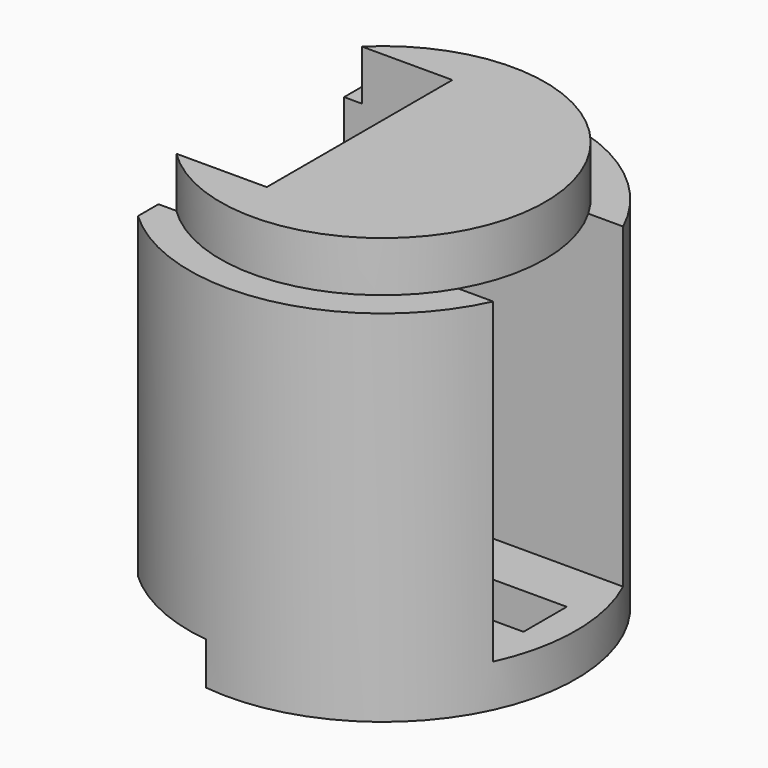
from build123d import *

# Parameters (mm, degrees)
CYLINDER091_R     = 21
CYLINDER091_DEPTH = 6.5
CYLINDER092_R     = 25
CYLINDER092_DEPTH = 6.5
BOX032_W          = 14
BOX032_H          = 50
BOX032_DEPTH      = 5.5
BOX031_W          = 14
BOX031_H          = 30
BOX031_DEPTH      = 53
BOX004_W          = 24
BOX004_H          = 7
BOX004_DEPTH      = 7
BOX003_W          = 55
BOX003_H          = 56
BOX003_DEPTH      = 71
BOX002_W          = 50
BOX002_H          = 21
BOX002_DEPTH      = 41
CYLINDER033_R     = 25
CYLINDER033_DEPTH = 53


with BuildPart() as cylinder091:
    # Cylinder091 → Cylinder091 (new body)
    with BuildSketch(Plane(origin=(6, 0, 45.5), x_dir=(1, 0, 0), z_dir=(0, 0, 1))):
        Circle(CYLINDER091_R)
    extrude(amount=CYLINDER091_DEPTH)


with BuildPart() as cut096:
    # Cylinder092 → Cylinder092 (new body)
    with BuildSketch(Plane(origin=(6, 0, 45.5), x_dir=(1, 0, 0), z_dir=(0, 0, 1))):
        Circle(CYLINDER092_R)
    extrude(amount=CYLINDER092_DEPTH)

    # Cut096: cut Cylinder091
    add(cylinder091.part, mode=Mode.SUBTRACT)


with BuildPart() as cube016:
    # Box032 → Box032 (new body)
    with BuildSketch(Plane(origin=(-11, -25, -1), x_dir=(1, 0, 0), z_dir=(0, 0, 1))):
        with Locations((7, 25)):
            Rectangle(BOX032_W, BOX032_H)
    extrude(amount=BOX032_DEPTH)


with BuildPart() as cube015:
    # Box031 → Box031 (new body)
    with BuildSketch(Plane(origin=(-11, -15, -1), x_dir=(1, 0, 0), z_dir=(0, 0, 1))):
        with Locations((7, 15)):
            Rectangle(BOX031_W, BOX031_H)
    extrude(amount=BOX031_DEPTH)


with BuildPart() as cube004:
    # Box004 → Box004 (new body)
    with BuildSketch(Plane(origin=(3, -3.5, -1), x_dir=(1, 0, 0), z_dir=(0, 0, 1))):
        with Locations((12, 3.5)):
            Rectangle(BOX004_W, BOX004_H)
    extrude(amount=BOX004_DEPTH)


with BuildPart() as cube003:
    # Box003 → Box003 (new body)
    with BuildSketch(Plane(origin=(-66, -25, -15), x_dir=(1, 0, 0), z_dir=(0, 0, 1))):
        with Locations((27.5, 28)):
            Rectangle(BOX003_W, BOX003_H)
    extrude(amount=BOX003_DEPTH)


with BuildPart() as cube002:
    # Box002 → Box002 (new body)
    with BuildSketch(Plane(origin=(-15, -10.5, 4.5), x_dir=(1, 0, 0), z_dir=(0, 0, 1))):
        with Locations((25, 10.5)):
            Rectangle(BOX002_W, BOX002_H)
    extrude(amount=BOX002_DEPTH)


with BuildPart() as cut097:
    # Cylinder033 → Cylinder033 (new body)
    with BuildSketch(Plane(origin=(6, 0, -1), x_dir=(1, 0, 0), z_dir=(0, 0, 1))):
        Circle(CYLINDER033_R)
    extrude(amount=CYLINDER033_DEPTH)

    # Cut026: cut Cube002
    add(cube002.part, mode=Mode.SUBTRACT)

    # Cut027: cut Cube003
    add(cube003.part, mode=Mode.SUBTRACT)

    # Cut028: cut Cube004
    add(cube004.part, mode=Mode.SUBTRACT)

    # Cut089: cut Cube015
    add(cube015.part, mode=Mode.SUBTRACT)

    # Cut090: cut Cube016
    add(cube016.part, mode=Mode.SUBTRACT)

    # Cut097: cut Cut096
    add(cut096.part, mode=Mode.SUBTRACT)


solid = cut097.part
